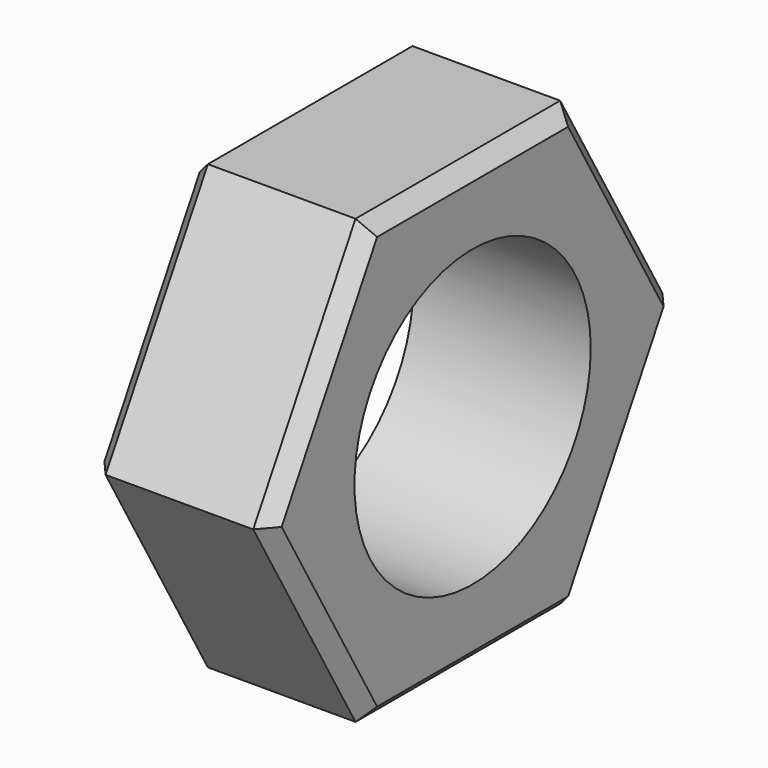
from build123d import *

# Parameters (mm, degrees)
F0_R     = 5
F1_DEPTH = 6
F2_SIZE  = 0.5


with BuildPart() as f1:
    # F0 (on Right) → F1 (new body)
    with BuildSketch(Plane.YZ):
        Polygon((4.330127, 7.5), (-4.330127, 7.5), (-8.660254, 0), (-4.330127, -7.5), (4.330127, -7.5), (8.660254, 0), align=None)
        Circle(F0_R, mode=Mode.SUBTRACT)
    extrude(amount=F1_DEPTH)

    # F2
    f2_edges = [f1.edges().sort_by_distance(p)[0] for p in [
        (6, 0, 7.5),
        (6, 6.495191, 3.75),
        (6, 6.495191, -3.75),
        (6, 0, -7.5),
        (6, -6.495191, 3.75),
        (0, 6.495191, 3.75),
        (0, 0, 7.5),
        (0, 6.495191, -3.75),
        (0, 0, -7.5),
        (0, -6.495191, -3.75),
        (0, -6.495191, 3.75),
        (6, -6.495191, -3.75),
    ]]
    chamfer(f2_edges, length=F2_SIZE)


solid = f1.part
